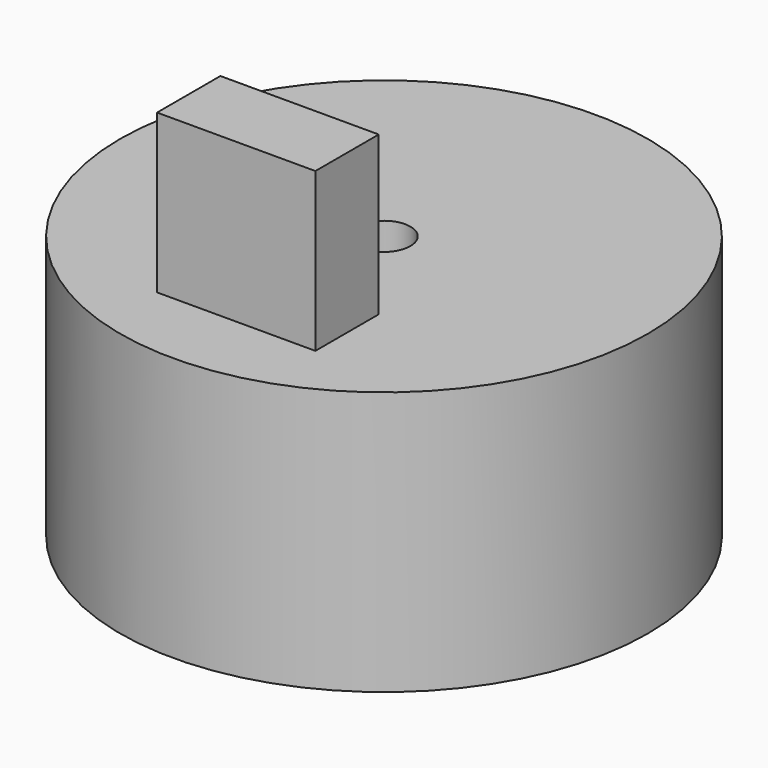
from build123d import *

# Parameters (mm, degrees)
F0_R     = 5
F1_DEPTH = 5
F2_W     = 3
F2_H     = 1.5
F3_DEPTH = 3
F4_R     = 0.5
F5_DEPTH = 25


with BuildPart() as f1:
    # F0 (on Top) → F1 (new body)
    with BuildSketch(Plane.XY):
        Circle(F0_R)
    extrude(amount=F1_DEPTH)

    # F2 (on face) → F3 (join)
    with BuildSketch(Plane.XY.offset(5)):
        with Locations((0, -2.75)):
            Rectangle(F2_W, F2_H)
    extrude(amount=F3_DEPTH)

    # F4 (on face) → F5 (cut)
    with BuildSketch(Plane.XY.offset(5)):
        Circle(F4_R)
    extrude(amount=-F5_DEPTH, mode=Mode.SUBTRACT)


solid = f1.part
